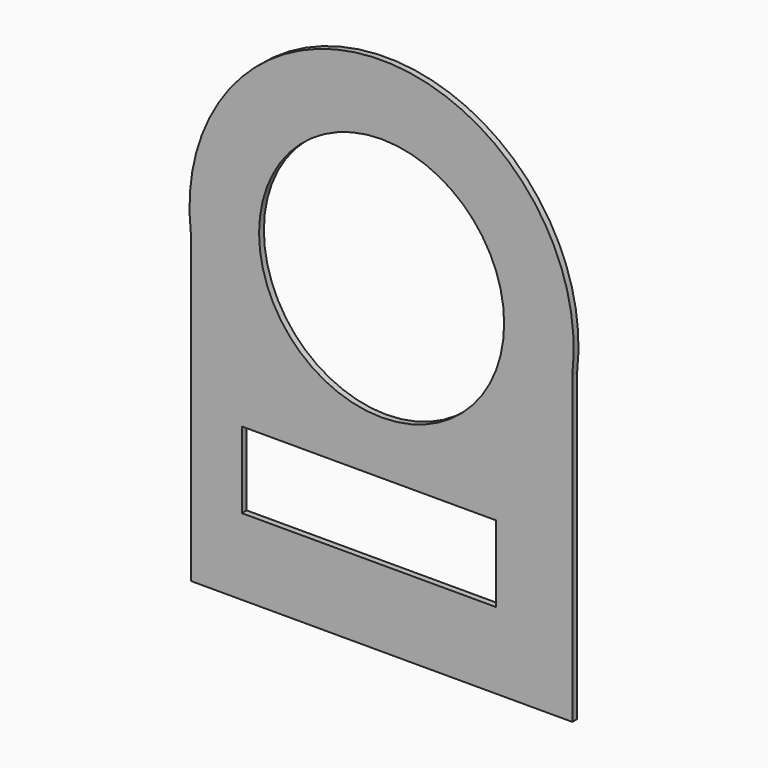
from build123d import *

# Parameters (mm, degrees)
F0_W     = 1270
F0_H     = 381
F0_R     = 611.634562
F1_DEPTH = 30


with BuildPart() as f1:
    # F0 (on Front) → F1 (new body)
    with BuildSketch(Plane.XZ):
        with BuildLine():
            ThreePointArc((912.264159, 15.708162), (-39.678166, 1090.642765), (-991.62049, 15.708162))
            Line((-991.62049, 15.708162), (-991.62049, -1508.291838))
            Line((-991.62049, -1508.291838), (912.264159, -1508.291838))
            Line((912.264159, -1508.291838), (912.264159, 15.708162))
        make_face()
        with Locations((-102.62049, -936.791838)):
            Rectangle(F0_W, F0_H, mode=Mode.SUBTRACT)
        with Locations((-39.678166, 131.664152)):
            Circle(F0_R, mode=Mode.SUBTRACT)
    extrude(amount=F1_DEPTH)


solid = f1.part
